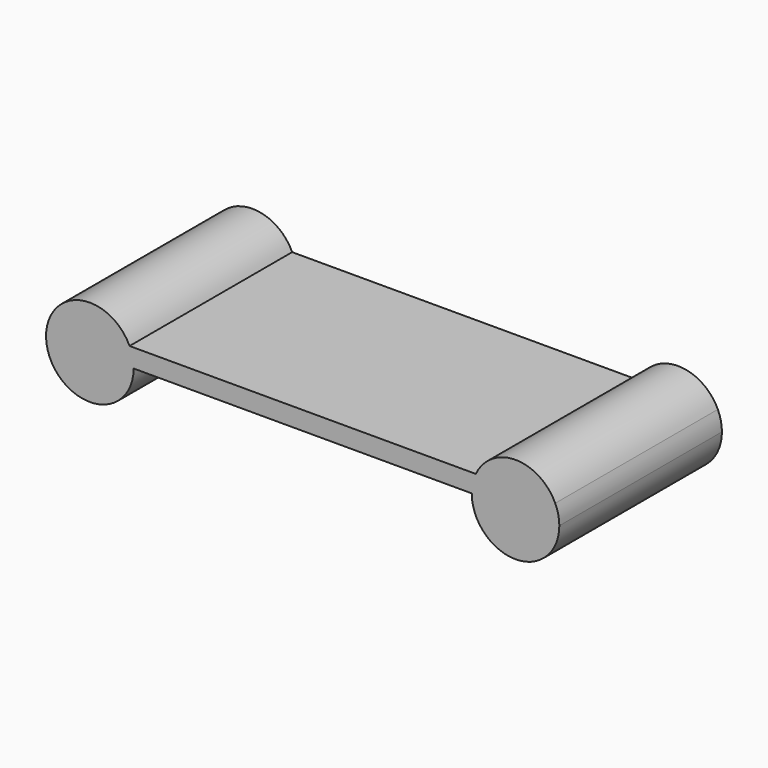
from build123d import *

# Parameters (mm, degrees)
F1_DEPTH = 69.85


with BuildPart() as f1:
    # F0 (on Front) → F1 (new body)
    with BuildSketch(Plane.XZ):
        with BuildLine():
            Line((-88.0228281021, 7.2806230746), (-88.0228281021, 13.6306230746))
            Line((-88.0228281021, 13.6306230746), (-63.2072817851, 13.6306230746))
            ThreePointArc((-63.2072817851, 13.6306230746), (-91.5454922156, 4.0288047309), (-61.8020095115, 7.2806230746))
            Line((-61.8020095115, 7.2806230746), (-88.0228281021, 7.2806230746))
        make_face()
        with BuildLine():
            Line((-63.2072817851, 13.6306230746), (-88.0228281021, 13.6306230746))
            Line((-88.0228281021, 13.6306230746), (-88.0228281021, 7.2806230746))
            Line((-88.0228281021, 7.2806230746), (-61.8020095115, 7.2806230746))
            ThreePointArc((-61.8020095115, 7.2806230746), (-62.1575268073, 10.5324414184), (-63.2072817851, 13.6306230746))
        make_face()
        with BuildLine():
            Line((55.7953398991, 13.6306230746), (-63.2072817851, 13.6306230746))
            ThreePointArc((-63.2072817851, 13.6306230746), (-62.1575268073, 10.5324414184), (-61.8020095115, 7.2806230746))
            Line((-61.8020095115, 7.2806230746), (54.3900676255, 7.2806230746))
            ThreePointArc((54.3900676255, 7.2806230746), (54.7455849214, 10.5324414184), (55.7953398991, 13.6306230746))
        make_face()
        with BuildLine():
            ThreePointArc((83.0837953519, 13.6306230746), (69.4395676255, 22.3301230746), (55.7953398991, 13.6306230746))
            Line((55.7953398991, 13.6306230746), (83.0837953519, 13.6306230746))
        make_face()
        with BuildLine():
            Line((83.0837953519, 13.6306230746), (55.7953398991, 13.6306230746))
            ThreePointArc((55.7953398991, 13.6306230746), (54.7455849214, 10.5324414184), (54.3900676255, 7.2806230746))
            Line((54.3900676255, 7.2806230746), (84.4890676255, 7.2806230746))
            ThreePointArc((84.4890676255, 7.2806230746), (84.1335503297, 10.5324414184), (83.0837953519, 13.6306230746))
        make_face()
        with BuildLine():
            Line((84.4890676255, 7.2806230746), (54.3900676255, 7.2806230746))
            ThreePointArc((54.3900676255, 7.2806230746), (69.4395676255, -7.7688769254), (84.4890676255, 7.2806230746))
        make_face()
    extrude(amount=F1_DEPTH)


solid = f1.part
